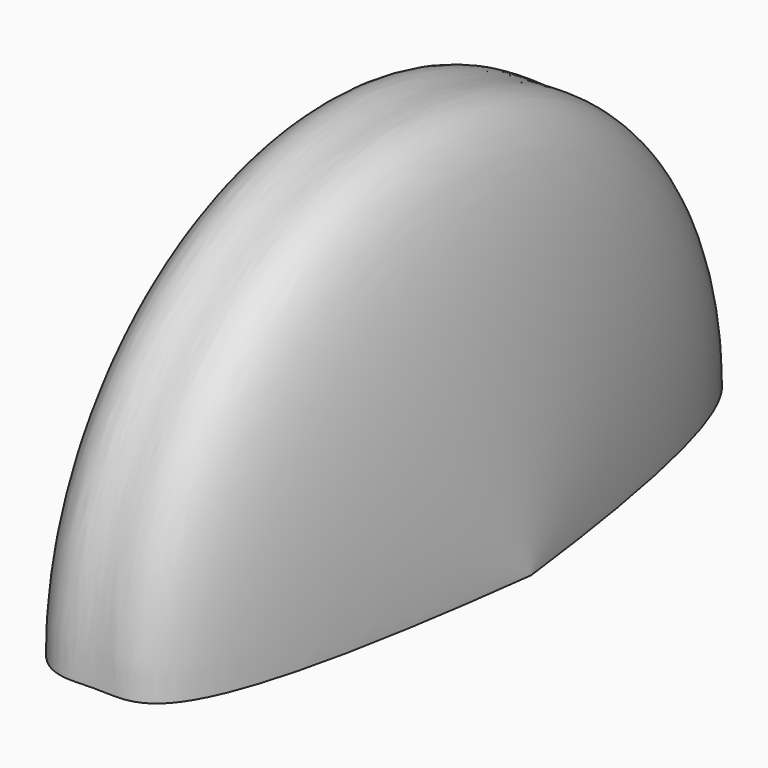
from build123d import *

# Parameters (mm, degrees)
F1_ANGLE = 180


with BuildPart() as f1:
    # F0 (on Top) → F1 (revolve)
    with BuildSketch(Plane.XY):
        with BuildLine():
            add(Edge.make_bspline(
                [(-6.25, 0), (-4.166667, 16.666667), (0, 14.102564), (4.166667, 16.666667), (6.25, 0)],
                knots=[0, 0, 0, 0, 16.605688, 33.211377, 33.211377, 33.211377, 33.211377], degree=3))
            Line((-6.25, 0), (6.25, 0))
        make_face()
    revolve(axis=Axis((0, 0, 0), (1, 0, 0)), revolution_arc=F1_ANGLE)


solid = f1.part
